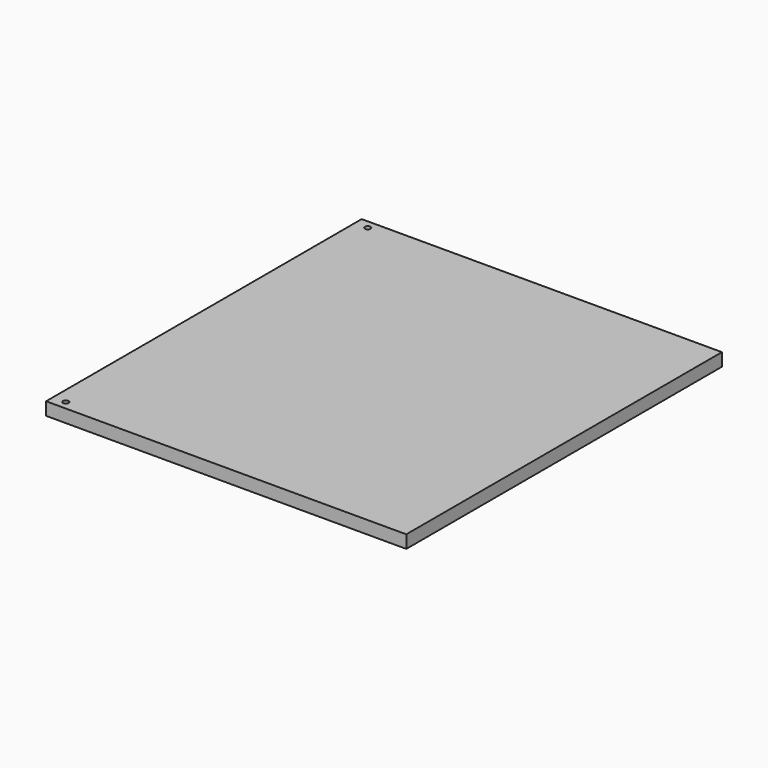
from build123d import *

# Parameters (mm, degrees)
F0_W     = 420
F0_H     = 460
F1_DEPTH = 15
F2_R     = 3.25
F3_DEPTH = 15
F4_W     = 402
F4_H     = 402
F5_DEPTH = 5.5
F6_R     = 5.25
F7_DEPTH = 6.5
F8_DEPTH = 6.5


with BuildPart() as f1:
    # F0 (on Top) → F1 (new body)
    with BuildSketch(Plane.XY):
        with Locations((135.56531, 178.600564)):
            Rectangle(F0_W, F0_H)
    extrude(amount=F1_DEPTH)

    # F2 (on face) → F3 (cut)
    with BuildSketch(Plane.XY.offset(15)):
        with Locations((-59.43469, -41.399436)):
            Circle(F2_R)
        with Locations((-59.43469, 398.600564)):
            Circle(F2_R)
    extrude(amount=-F3_DEPTH, mode=Mode.SUBTRACT)

    # F4 (on face) → F5 (cut)
    with BuildSketch(Plane(origin=(0, 0, 0), x_dir=(1, 0, 0), z_dir=(0, 0, -1))):
        with Locations((135.56531, -178.600564)):
            Rectangle(F4_W, F4_H)
    extrude(amount=-F5_DEPTH, mode=Mode.SUBTRACT)

    # F6 (on face) → F7 (cut)
    with BuildSketch(Plane(origin=(0, 0, 0), x_dir=(1, 0, 0), z_dir=(0, 0, -1))):
        with Locations((-59.43469, -398.600564)):
            Circle(F6_R)
        with Locations((-59.43469, 41.399436)):
            Circle(F6_R)
    extrude(amount=-F7_DEPTH, mode=Mode.SUBTRACT)

    # F6 (on face) → F8 (cut)
    with BuildSketch(Plane(origin=(0, 0, 0), x_dir=(1, 0, 0), z_dir=(0, 0, -1))):
        with Locations((-59.43469, -398.600564)):
            Circle(F6_R)
        with Locations((-59.43469, 41.399436)):
            Circle(F6_R)
    extrude(amount=-F8_DEPTH, mode=Mode.SUBTRACT)


solid = f1.part
